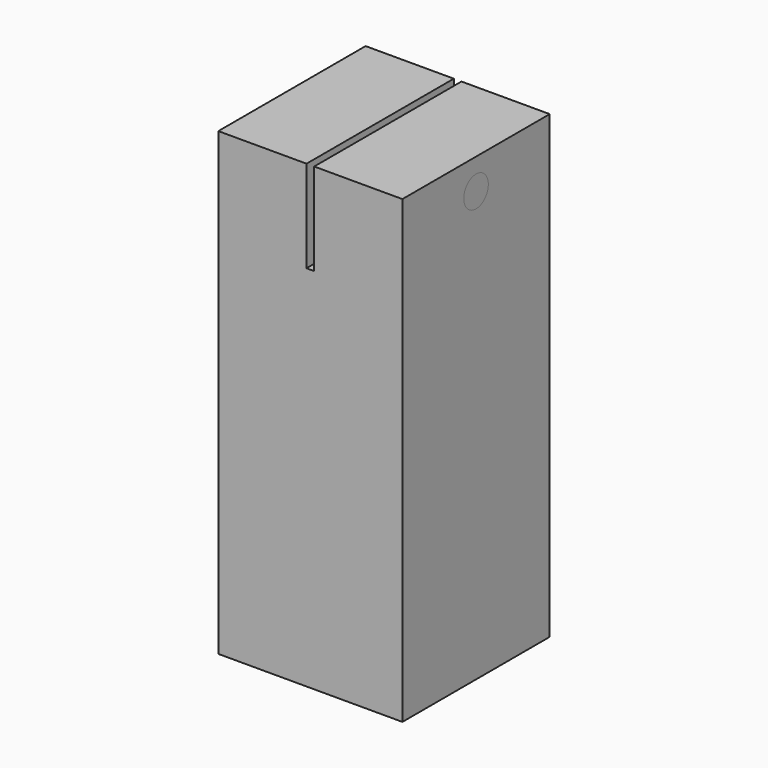
from build123d import *

# Parameters (mm, degrees)
F0_W     = 3.175
F0_H     = 76.2
F0_W_2   = 36.5125
F1_DEPTH = 152.4
F2_DEPTH = 38.1
F3_R     = 6.35
F4_DEPTH = 76.201
F5_R     = 6.35
F6_DEPTH = 76.2


with BuildPart() as f1:
    # F0 (on Top) → F1 (new body)
    with BuildSketch(Plane.XY):
        with Locations((38.1, -38.1)):
            Rectangle(F0_W, F0_H)
        with Locations((57.94375, -38.1)):
            Rectangle(F0_W_2, F0_H)
        with Locations((18.25625, -38.1)):
            Rectangle(F0_W_2, F0_H)
    extrude(amount=-F1_DEPTH)

    # F0 (on Top) → F2 (join)
    with BuildSketch(Plane.XY):
        with Locations((18.25625, -38.1)):
            Rectangle(F0_W_2, F0_H)
        with Locations((57.94375, -38.1)):
            Rectangle(F0_W_2, F0_H)
    extrude(amount=F2_DEPTH)

    # F3 (on face) → F4 (cut, through all)
    with BuildSketch(Plane.YZ.offset(76.2)):
        with Locations((-38.1, 25.4)):
            Circle(F3_R)
    extrude(amount=-F4_DEPTH, mode=Mode.SUBTRACT)


with BuildPart() as f6:
    # F5 (on face) → F6 (new body)
    with BuildSketch(Plane.YZ.offset(76.2)):
        with Locations((-38.1, 25.4)):
            Circle(F5_R)
    extrude(amount=-F6_DEPTH)


solid = Compound([f1.part, f6.part])
